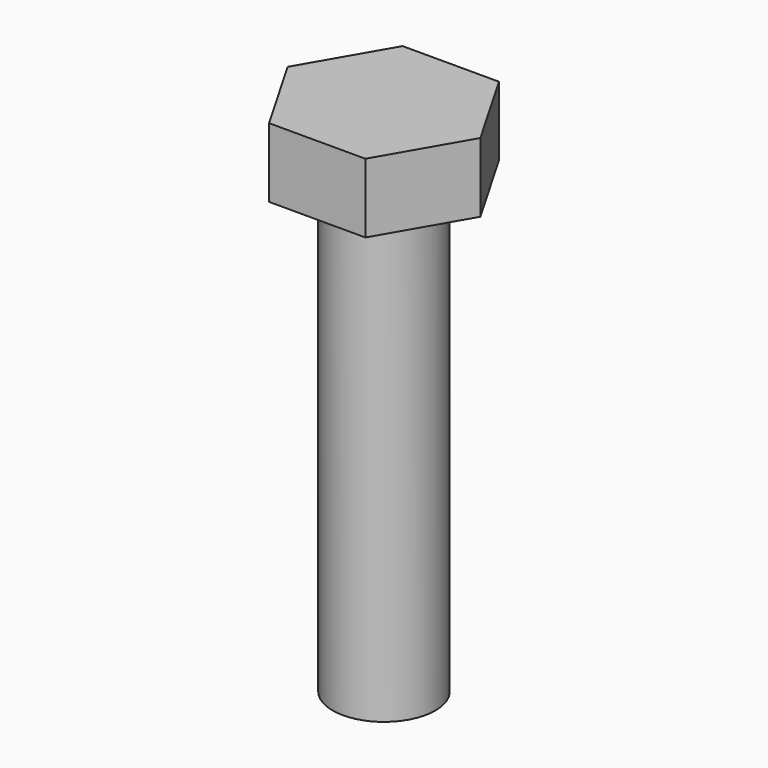
from build123d import *

# Parameters (mm, degrees)
F0_R     = 4
F1_DEPTH = 35
F3_DEPTH = 5.4


with BuildPart() as f1:
    # F0 (on Top) → F1 (new body)
    with BuildSketch(Plane.XY):
        Circle(F0_R)
    extrude(amount=F1_DEPTH)

    # F2 (on face) → F3 (join)
    with BuildSketch(Plane.XY.offset(35)):
        Polygon((3.752777, 6.5), (-3.752777, 6.5), (-7.505553, 0), (-3.752777, -6.5), (3.752777, -6.5), (7.505553, 0), align=None)
    extrude(amount=F3_DEPTH)


solid = f1.part
